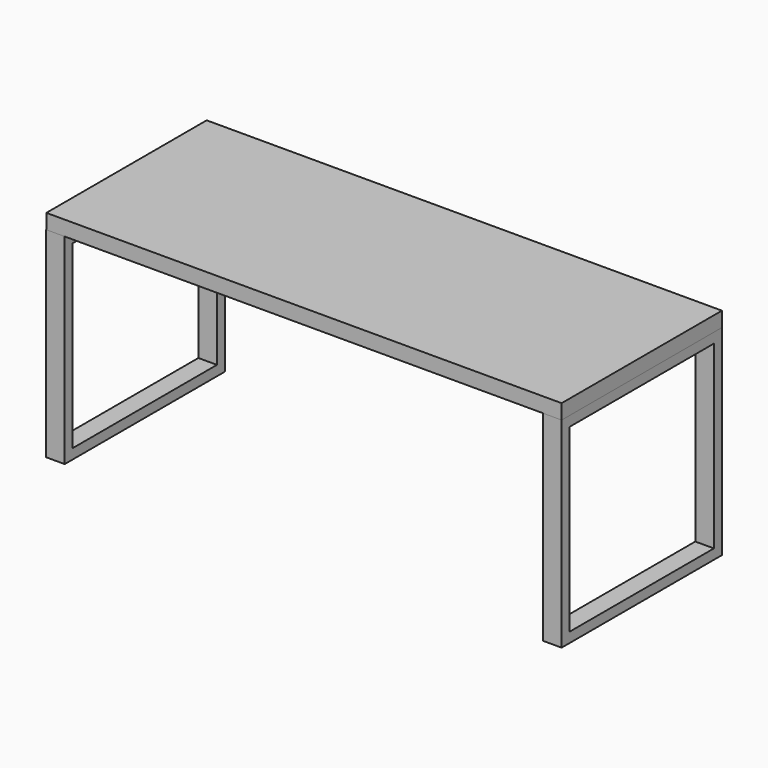
from build123d import *

# Parameters (mm, degrees)
F0_W     = 1800
F0_H     = 700
F1_DEPTH = 52
F2_W     = 700
F2_H     = 700
F2_W_2   = 630
F2_H_2   = 630
F3_DEPTH = 65


with BuildPart() as f1:
    # F0 (on Top) → F1 (new body)
    with BuildSketch(Plane.XY):
        with Locations((900, 350)):
            Rectangle(F0_W, F0_H)
    extrude(amount=F1_DEPTH)


with BuildPart() as f3:
    # F2 (on face) → F3 (new body)
    with BuildSketch(Plane.YZ.offset(1800)):
        with Locations((350, -350)):
            Rectangle(F2_W, F2_H)
        with Locations((350, -350)):
            Rectangle(F2_W_2, F2_H_2, mode=Mode.SUBTRACT)
    extrude(amount=-F3_DEPTH)


with BuildPart() as f4_1:
    # F4: copy of F3
    add(f3.part.moved(Location((-1736, 0, 0))))


solid = Compound([f1.part, f3.part, f4_1.part])
